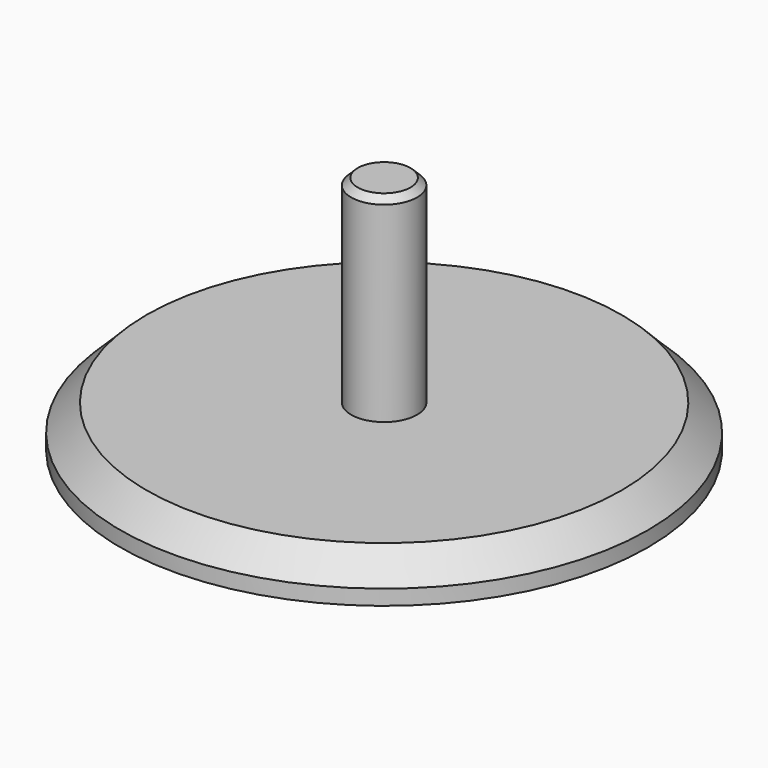
from build123d import *

# Parameters (mm, degrees)
F0_R     = 1.27
F1_DEPTH = 7.62
F2_R     = 10.16
F3_DEPTH = 1.6002
F4_SIZE  = 1.016
F5_SIZE  = 0.254


with BuildPart() as f1:
    # F0 (on Top) → F1 (new body)
    with BuildSketch(Plane.XY):
        Circle(F0_R)
    extrude(amount=-F1_DEPTH)

    # F2 (on face) → F3 (join)
    with BuildSketch(Plane(origin=(0, 0, -7.62), x_dir=(1, 0, 0), z_dir=(0, 0, -1))):
        Circle(F2_R)
    extrude(amount=F3_DEPTH)

    # F4
    f4_edges = [f1.edges().sort_by_distance(p)[0] for p in [
        (-10.16, 0, -7.62),
    ]]
    chamfer(f4_edges, length=F4_SIZE)

    # F5
    f5_edges = [f1.edges().sort_by_distance(p)[0] for p in [
        (-1.27, 0, 0),
    ]]
    chamfer(f5_edges, length=F5_SIZE)


solid = f1.part
